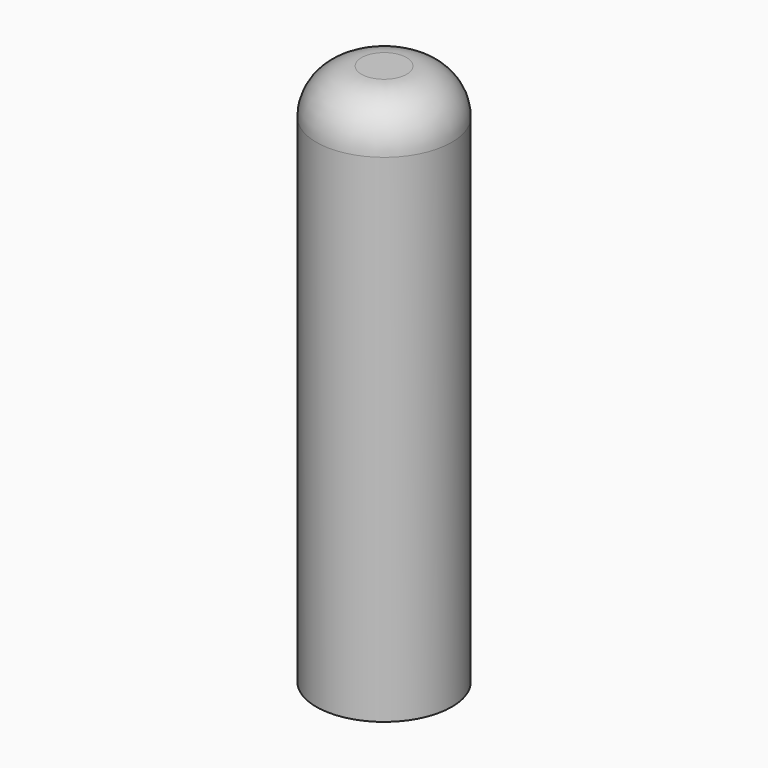
from build123d import *

# Parameters (mm, degrees)
F0_R     = 9.525
F1_DEPTH = 76.2
F2_R     = 6.35
F3_T     = -3.175
F4_R     = 1.5875


with BuildPart() as f1:
    # F0 (on Top) → F1 (new body)
    with BuildSketch(Plane.XY):
        Circle(F0_R)
    extrude(amount=F1_DEPTH)

    # F2
    f2_edges = [f1.edges().sort_by_distance(p)[0] for p in [
        (-9.525, 0, 76.2),
    ]]
    fillet(f2_edges, radius=F2_R)

    # F3
    f3_openings = [f1.faces().sort_by_distance(p)[0] for p in [
        (0, 0, 0),
    ]]
    offset(amount=F3_T, openings=f3_openings)

    # F4
    f4_edges = [f1.edges().sort_by_distance(p)[0] for p in [
        (-6.35, 0, 0),
    ]]
    fillet(f4_edges, radius=F4_R)


solid = f1.part
